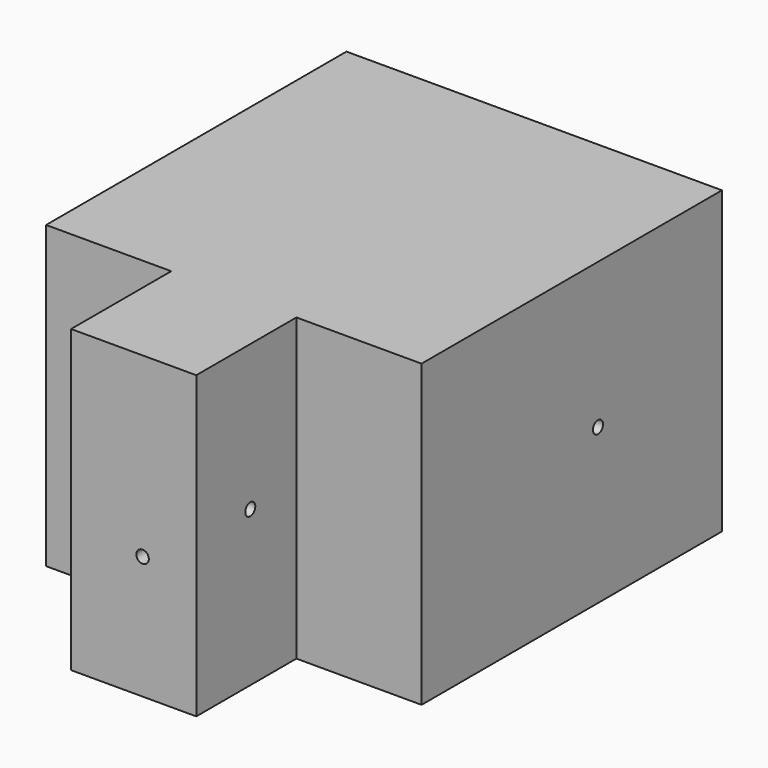
from build123d import *

# Parameters (mm, degrees)
F1_DEPTH = 12
F2_R     = 0.25
F3_DEPTH = 52.1
F4_R     = 0.25
F5_DEPTH = 44
F6_R     = 0.25
F7_DEPTH = 57


with BuildPart() as f1:
    # F0 (on Top) → F1 (new body)
    with BuildSketch(Plane.XY):
        Polygon((0, 20), (-15, 20), (-15, 5), (-10, 5), (-10, 0), (-5, 0), (-5, 5), (0, 5), align=None)
    extrude(amount=F1_DEPTH)

    # F2 (on Right) → F3 (cut)
    with BuildSketch(Plane.YZ):
        with Locations((13.81054, 6.187139)):
            Circle(F2_R)
    extrude(amount=-F3_DEPTH, mode=Mode.SUBTRACT)

    # F4 (on Front) → F5 (cut)
    with BuildSketch(Plane.XZ):
        with Locations((-7.144658, 4.92007)):
            Circle(F4_R)
    extrude(amount=-F5_DEPTH, mode=Mode.SUBTRACT)

    # F6 (on Right) → F7 (cut)
    with BuildSketch(Plane.YZ):
        with Locations((2.697288, 6.192037)):
            Circle(F6_R)
    extrude(amount=-F7_DEPTH, mode=Mode.SUBTRACT)


solid = f1.part
